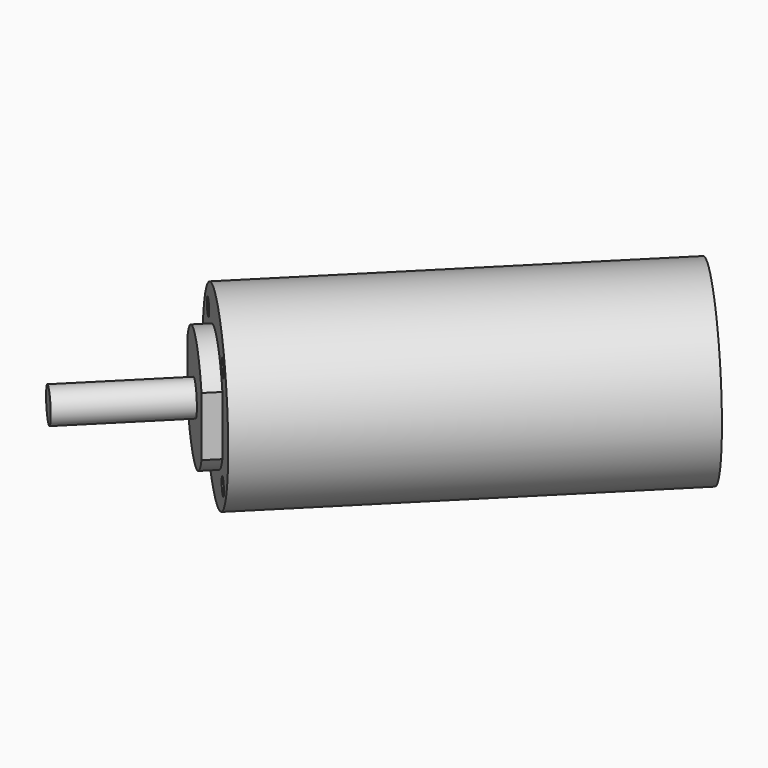
from build123d import *

# Parameters (mm, degrees)
SKETCH092_R             = 11
PAD037_DEPTH            = 47.3
PAD038_DEPTH            = 2
SKETCH094_R             = 1
POCKET051_DEPTH         = 5
SKETCH095_R             = 2
PAD039_DEPTH            = 14
BODY027_PLACEMENT_ANGLE = 45


with BuildPart() as part:
    # Sketch092 → Pad037 (new body)
    with BuildSketch(Plane.XZ):
        Circle(SKETCH092_R)
    extrude(amount=-PAD037_DEPTH)

    # Sketch093 (on Face2 of Pad037) → Pad038 (join)
    with BuildSketch(Plane.XZ):
        with BuildLine():
            Line((-6, 3.605551), (-6, -3.605551))
            ThreePointArc((-6, -3.605551), (0, -7), (6, -3.605551))
            Line((6, -3.605551), (6, 3.605551))
            ThreePointArc((6, 3.605551), (0, 7), (-6, 3.605551))
        make_face()
    extrude(amount=PAD038_DEPTH)

    # Sketch094 (on Face2 of Pad038) → Pocket051 (cut)
    with BuildSketch(Plane.XZ):
        with Locations((-6.363961, 6.363961)):
            Circle(SKETCH094_R)
        with Locations((6.363961, 6.363961)):
            Circle(SKETCH094_R)
        with Locations((6.363961, -6.363961)):
            Circle(SKETCH094_R)
        with Locations((-6.363961, -6.363961)):
            Circle(SKETCH094_R)
    extrude(amount=-POCKET051_DEPTH, mode=Mode.SUBTRACT)

    # Sketch095 (on Face14 of Pocket051) → Pad039 (join)
    with BuildSketch(Plane.XZ.offset(2)):
        Circle(SKETCH095_R)
    extrude(amount=PAD039_DEPTH)


with BuildPart() as part_1:
    # Body027 placement: moved
    add(part.part.moved(Location((-58.5, -58.5, 17))).rotate(Axis((-58.5, -58.5, 17), (0, 0, -1)), BODY027_PLACEMENT_ANGLE))


solid = part_1.part
